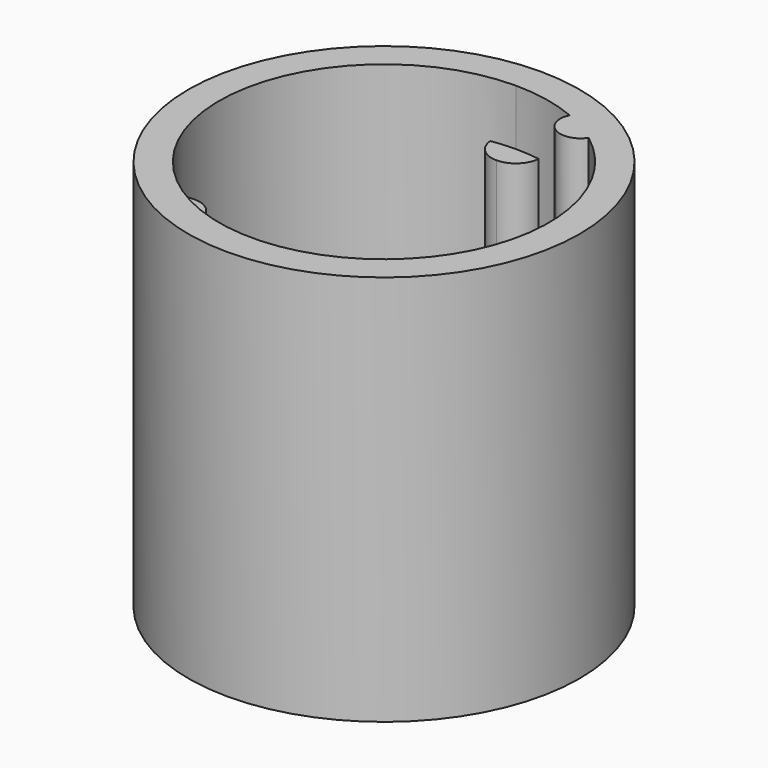
from build123d import *

# Parameters (mm, degrees)
F0_R     = 10.5
F1_DEPTH = 21
F3_DEPTH = 18
F4_R     = 1
F5_DEPTH = 25
F7_DEPTH = 15


with BuildPart() as f1:
    # F0 (on Top) → F1 (new body)
    with BuildSketch(Plane.XY):
        Circle(F0_R)
    extrude(amount=F1_DEPTH)

    # F2 (on face) → F3 (cut)
    with BuildSketch(Plane.XY.offset(21)):
        with BuildLine():
            ThreePointArc((3.875, 6.711697), (3.371846, 7.346729), (3.440033, 8.154059))
            ThreePointArc((3.440033, 8.154059), (1.754862, 8.67427), (0, 8.85))
            Line((0, 8.85), (0, 0))
            Line((0, 0), (3.875, 6.711697))
        make_face()
        with BuildLine():
            Line((0, 0), (0, 8.85))
            ThreePointArc((0, 8.85), (-2.81738, -8.389569), (5.341606, 7.056185))
            ThreePointArc((5.341606, 7.056185), (4.676531, 6.593469), (3.875, 6.711697))
            Line((3.875, 6.711697), (0, 0))
        make_face()
    extrude(amount=-F3_DEPTH, mode=Mode.SUBTRACT)

    # F4 (on face) → F5 (cut)
    with BuildSketch(Plane.XY.offset(3)):
        with Locations((-6.9, -0.5)):
            Circle(F4_R)
        with Locations((5, 4)):
            Circle(F4_R)
        with Locations((6.7, 1.5)):
            Circle(F4_R)
        with Locations((4, -4.8)):
            Circle(F4_R)
        with Locations((6.7, -0.7)):
            Circle(F4_R)
    extrude(amount=-F5_DEPTH, mode=Mode.SUBTRACT)

    # F6 (on face) → F7 (join)
    with BuildSketch(Plane.XY.offset(3)):
        with BuildLine():
            ThreePointArc((0, 7.55), (0.919239, 7.930761), (1.3, 8.85))
            ThreePointArc((1.3, 8.85), (-0.919239, 9.769239), (0, 7.55))
        make_face()
        with BuildLine():
            ThreePointArc((8.964325, -4.425), (8.00079, -3.169296), (6.538492, -3.775))
            ThreePointArc((6.538492, -3.775), (7.32786, -5.680704), (8.964325, -4.425))
        make_face()
        with BuildLine():
            ThreePointArc((-6.364325, -4.425), (-6.408621, -4.088535), (-6.538492, -3.775))
            ThreePointArc((-6.538492, -3.775), (-8.920028, -4.761465), (-6.364325, -4.425))
        make_face()
    extrude(amount=F7_DEPTH)


solid = f1.part
